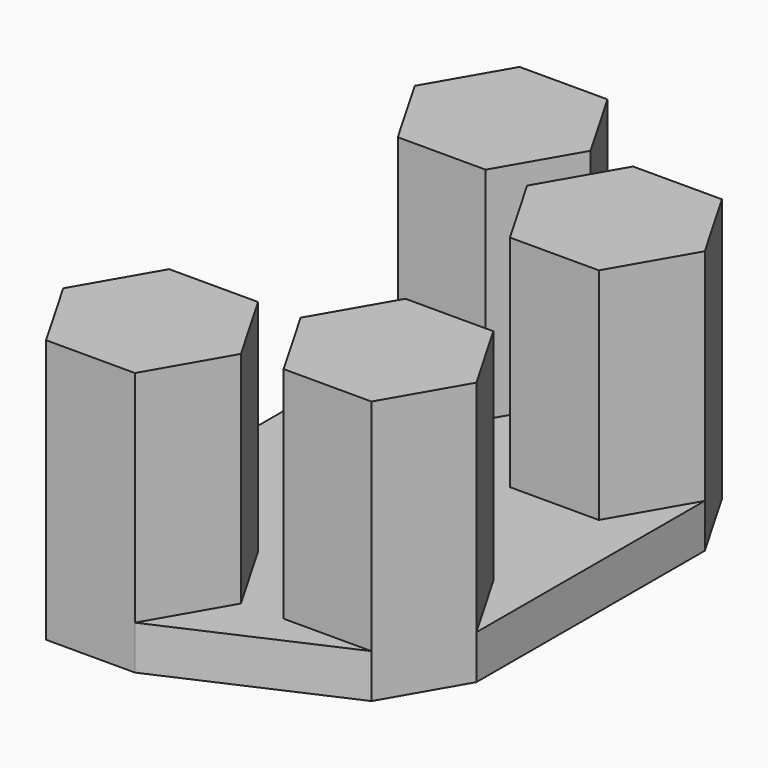
from build123d import *

# Parameters (mm, degrees)
F1_DEPTH = 5.08
F2_DEPTH = 30.48


with BuildPart() as f1:
    # F0 (on Top) → F1 (new body)
    with BuildSketch(Plane.XY):
        Polygon((-36.418538, 14.150257), (-46.578538, 14.150257), (-51.658538, 5.351439), (-46.578538, -3.447379), (-36.418538, -3.447379), (-31.338538, 5.351439), align=None)
        Polygon((-11.018538, -3.541834), (-16.153072, 5.351439), (-26.422139, 5.351439), (-31.556673, -3.541834), (-26.422139, -12.435107), (-16.153072, -12.435107), align=None)
        Polygon((-16.153072, -45.272744), (-11.073072, -36.473925), (-16.153072, -27.675107), (-26.313072, -27.675107), (-31.393072, -36.473925), (-26.313072, -45.272744), align=None)
        Polygon((-46.578538, -36.473907), (-51.713072, -45.36718), (-46.578538, -54.260453), (-36.309471, -54.260453), (-31.174937, -45.36718), (-36.309471, -36.473907), align=None)
        Polygon((-46.578538, -3.447379), (-51.658538, 5.351439), (-51.713072, -45.36718), (-46.578538, -36.473907), (-36.309471, -36.473907), (-31.174937, -45.36718), (-36.309471, -54.260453), (-16.153072, -45.272744), (-26.313072, -45.272744), (-31.393072, -36.473925), (-26.313072, -27.675107), (-16.153072, -27.675107), (-11.073072, -36.473925), (-11.018538, -3.541834), (-16.153072, -12.435107), (-26.422139, -12.435107), (-31.556673, -3.541834), (-26.422139, 5.351439), (-16.153072, 5.351439), (-36.418538, 14.150257), (-31.338538, 5.351439), (-36.418538, -3.447379), align=None)
    extrude(amount=F1_DEPTH)

    # F0 (on Top) → F2 (join)
    with BuildSketch(Plane.XY):
        Polygon((-36.418538, 14.150257), (-46.578538, 14.150257), (-51.658538, 5.351439), (-46.578538, -3.447379), (-36.418538, -3.447379), (-31.338538, 5.351439), align=None)
        Polygon((-11.018538, -3.541834), (-16.153072, 5.351439), (-26.422139, 5.351439), (-31.556673, -3.541834), (-26.422139, -12.435107), (-16.153072, -12.435107), align=None)
        Polygon((-16.153072, -45.272744), (-11.073072, -36.473925), (-16.153072, -27.675107), (-26.313072, -27.675107), (-31.393072, -36.473925), (-26.313072, -45.272744), align=None)
        Polygon((-46.578538, -36.473907), (-51.713072, -45.36718), (-46.578538, -54.260453), (-36.309471, -54.260453), (-31.174937, -45.36718), (-36.309471, -36.473907), align=None)
    extrude(amount=F2_DEPTH)


solid = f1.part
